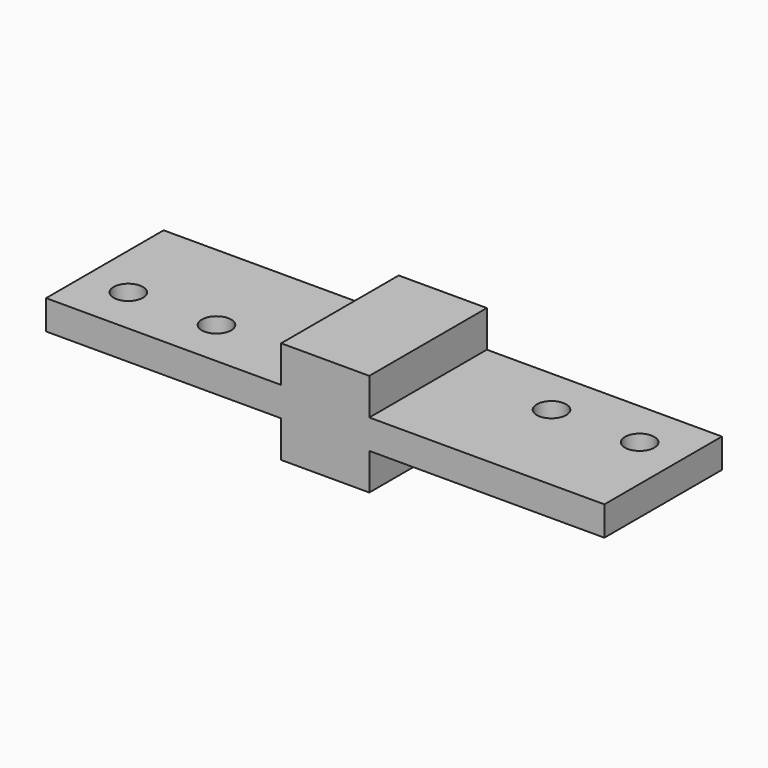
from build123d import *

# Parameters (mm, degrees)
F1_DEPTH = 31.75
F3_D     = 6.35


with BuildPart() as f1:
    # F0 (on Front) → F1 (new body)
    with BuildSketch(Plane.XZ):
        Polygon((-50.8, 0), (0, 0), (0, 6.35), (-50.8, 6.35), (-50.8, 14.2748), (-69.85, 14.2748), (-69.85, 6.35), (-120.65, 6.35), (-120.65, 0), (-69.85, 0), (-69.85, -7.9248), (-50.8, -7.9248), align=None)
    extrude(amount=F1_DEPTH)

    # F3 (through all)
    with Locations(Plane(origin=(0, 0, 0), x_dir=(1, 0, 0), z_dir=(0, 0, -1))):
        with Locations((-111.125, 21.4376), (-92.075, 21.4376), (-28.575, 10.3124), (-9.525, 10.3124)):
            Hole(F3_D / 2)


solid = f1.part
